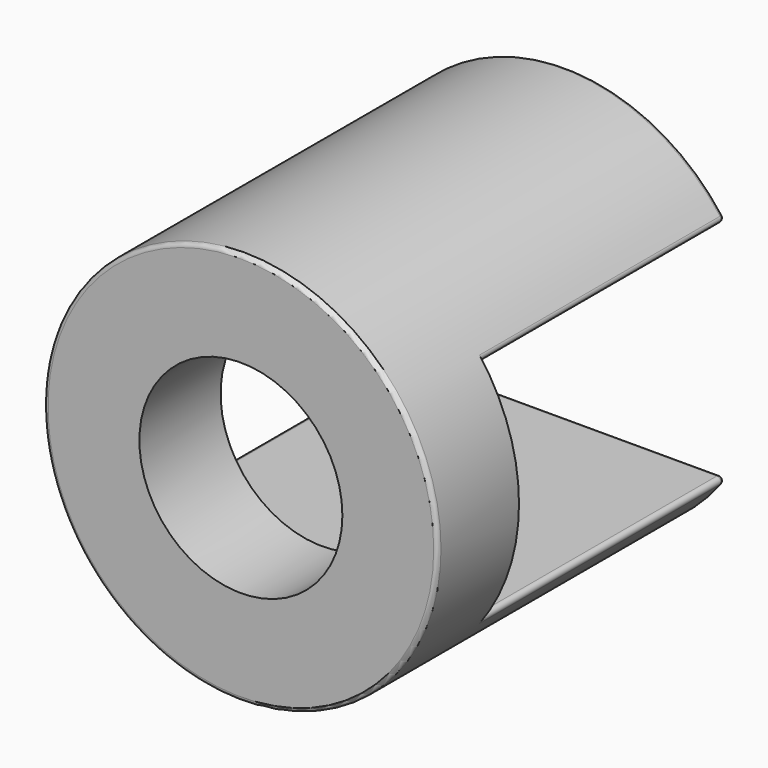
from build123d import *

# Parameters (mm, degrees)
F0_R     = 12.319
F1_DEPTH = 25.4
F2_W     = 60.442776
F2_H     = 13.97
F3_DEPTH = 19.05
F4_R     = 6.35
F5_DEPTH = 25.4
F6_R     = 0.254


with BuildPart() as f1:
    # F0 (on Front) → F1 (new body)
    with BuildSketch(Plane.XZ):
        Circle(F0_R)
    extrude(amount=F1_DEPTH)

    # F2 (on face) → F3 (cut)
    with BuildSketch(Plane(origin=(0, 0, 0), x_dir=(-1, 0, 0), z_dir=(0, 1, 0))):
        Rectangle(F2_W, F2_H)
    extrude(amount=-F3_DEPTH, mode=Mode.SUBTRACT)

    # F4 (on face) → F5 (cut)
    with BuildSketch(Plane.XZ.offset(25.4)):
        Circle(F4_R)
    extrude(amount=-F5_DEPTH, mode=Mode.SUBTRACT)

    # F6
    f6_edges = [f1.edges().sort_by_distance(p)[0] for p in [
        (10.147292, -9.525, 6.985),
        (-10.147292, -9.525, 6.985),
        (0, 0, 6.985),
        (0, 0, 12.319),
        (0, 0, -12.319),
        (-10.147292, -9.525, -6.985),
        (10.147292, -9.525, -6.985),
        (0, 0, -6.985),
        (-12.319, -25.4, 0),
    ]]
    fillet(f6_edges, radius=F6_R)


solid = f1.part
